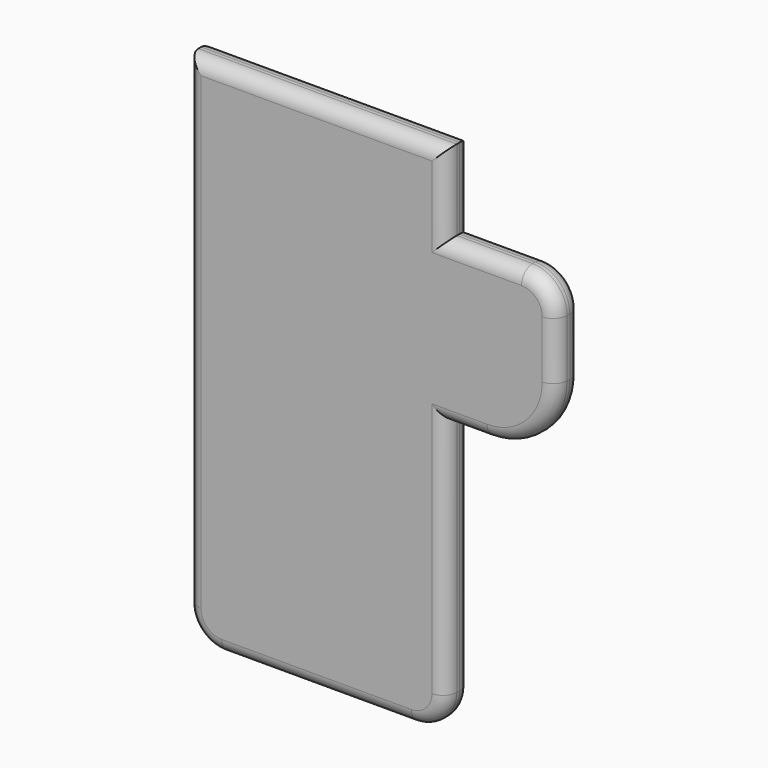
from build123d import *

# Parameters (mm, degrees)
F1_DEPTH = 18
F2_R     = 8


with BuildPart() as f1:
    # F0 (on Front) → F1 (new body)
    with BuildSketch(Plane.XZ):
        with BuildLine():
            ThreePointArc((-57.712653, -188.988174), (-51.854789, -203.130309), (-37.712653, -208.988174))
            Line((-37.712653, -208.988174), (72.287347, -208.988174))
            ThreePointArc((72.287347, -208.988174), (86.429482, -203.130309), (92.287347, -188.988174))
            Line((92.287347, -188.988174), (92.287347, -48.988174))
            Line((92.287347, -48.988174), (92.287347, 44.301756))
            Line((92.287347, 44.301756), (92.287347, 91.011826))
            Line((92.287347, 91.011826), (-57.712653, 91.011826))
            Line((-57.712653, 91.011826), (-57.712653, -188.988174))
        make_face()
        with BuildLine():
            Line((92.287347, 44.301756), (92.287347, -48.988174))
            Line((92.287347, -48.988174), (116.240627, -48.988174))
            ThreePointArc((116.240627, -48.988174), (144.524898, -37.272445), (156.240627, -8.988174))
            Line((156.240627, -8.988174), (156.240627, 24.301756))
            ThreePointArc((156.240627, 24.301756), (150.382763, 38.443891), (136.240627, 44.301756))
            Line((136.240627, 44.301756), (92.287347, 44.301756))
        make_face()
    extrude(amount=F1_DEPTH)

    # F2
    f2_edges = [f1.edges().sort_by_distance(p)[0] for p in [
        (-57.712653, -18, -48.988174),
        (-57.712653, 0, -48.988174),
        (17.287347, -18, 91.011826),
        (17.287347, 0, 91.011826),
        (92.287347, -18, 67.656791),
        (92.287347, 0, 67.656791),
        (114.263987, 0, 44.301756),
        (114.263987, -18, 44.301756),
        (150.382763, 0, 38.443891),
    ]]
    fillet(f2_edges, radius=F2_R)


with BuildPart() as f1_1:
    # F3: moved
    add(f1.part.moved(Location((5, 0, 0))))


solid = f1_1.part
